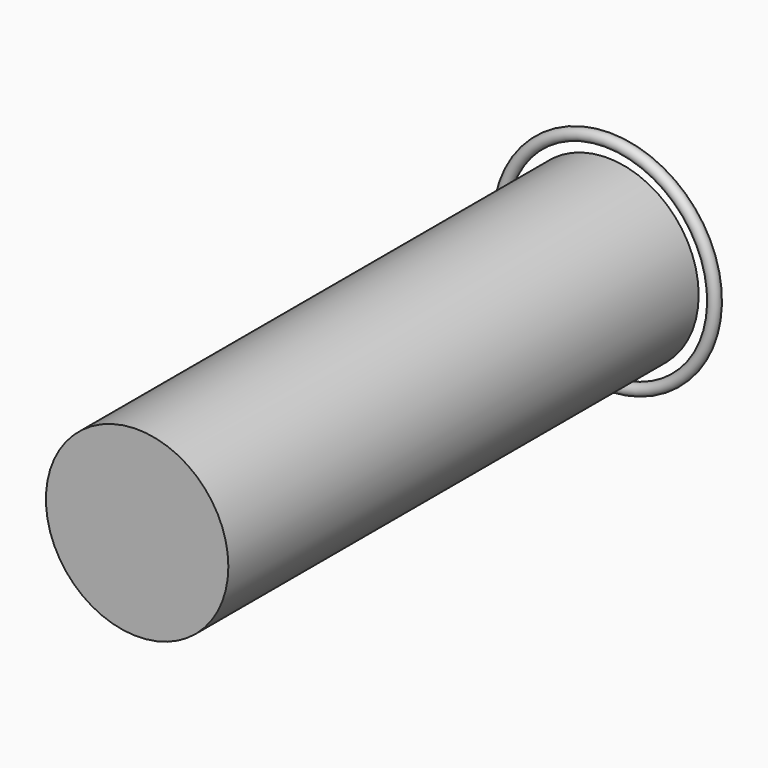
from build123d import *

# Parameters (mm, degrees)
F0_R     = 41.89293
F1_DEPTH = 270


with BuildPart() as f1:
    # F0 (on Front) → F1 (new body)
    with BuildSketch(Plane.XZ):
        Circle(F0_R)
    extrude(amount=F1_DEPTH)


with BuildPart() as f3:
    # F2 (on Right) → F3 (revolve)
    with BuildSketch(Plane.YZ):
        with BuildLine():
            ThreePointArc((0, 46.509231), (1.886784, 47.290762), (2.668315, 49.177546))
            ThreePointArc((2.668315, 49.177546), (-1.886784, 51.06433), (0, 46.509231))
        make_face()
    revolve(axis=Axis((0, 10.905417, 0), (0, 1, 0)))


solid = Compound([f1.part, f3.part])
